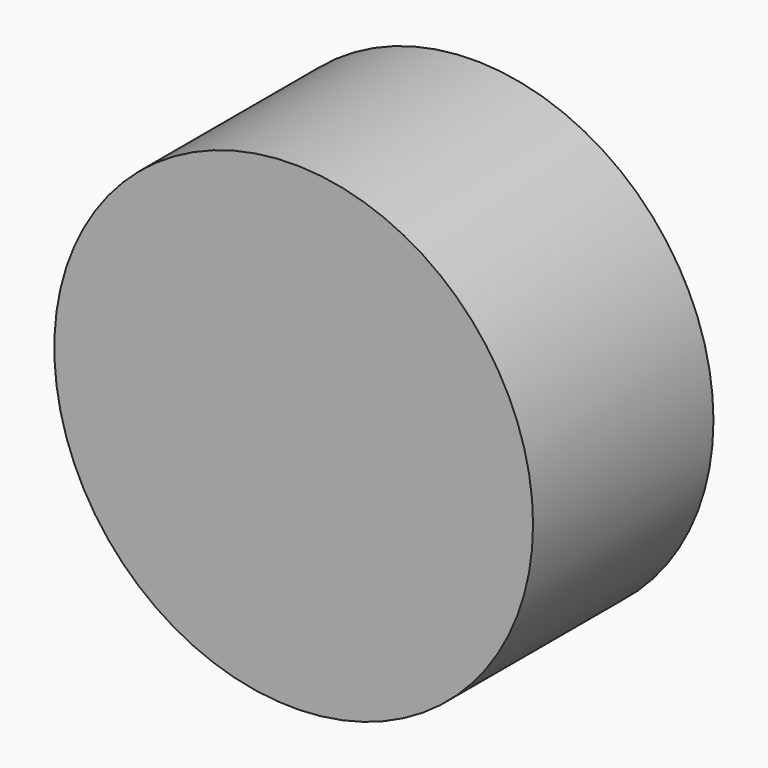
from build123d import *

# Parameters (mm, degrees)
F0_W     = 66.3625448942
F0_H     = 52.2382929921
F1_DEPTH = 25
F0_R     = 26.537616526


with BuildPart() as f1:
    # F0 (on Front) → F1 (new body)
    with BuildSketch(Plane.XZ):
        with Locations((-103.3144816756, 26.1191464961)):
            Rectangle(F0_W, F0_H)
    extrude(amount=F1_DEPTH)


with BuildPart() as f1b:
    # F0 (on Front) → F1, piece 2 (new body)
    with BuildSketch(Plane.XZ):
        with Locations((45.0334623456, 64.3185600638)):
            Circle(F0_R)
    extrude(amount=F1_DEPTH)


solid = f1b.part
